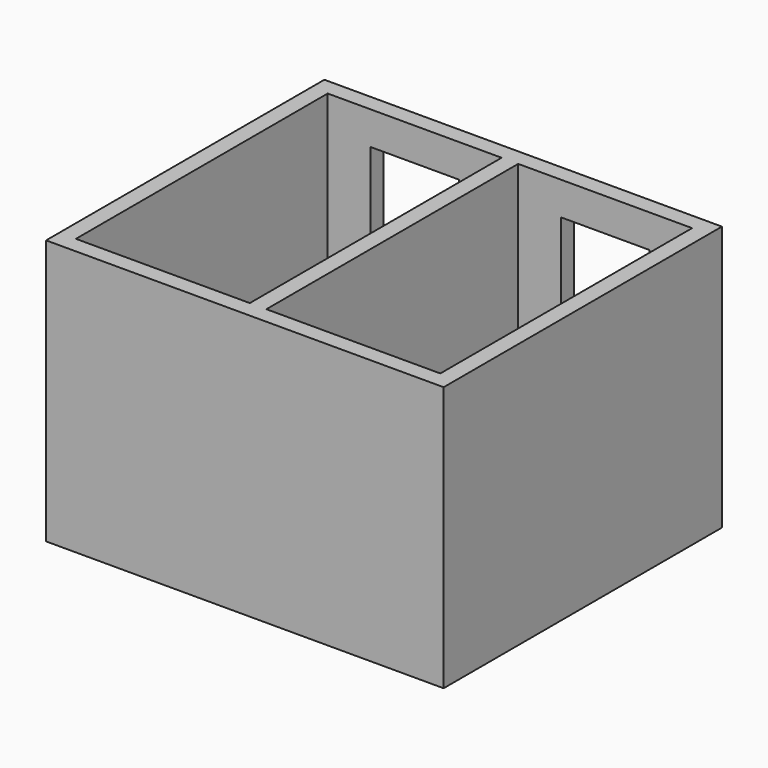
from build123d import *

# Parameters (mm, degrees)
F0_W     = 152.4
F0_H     = 2895.6
F0_W_2   = 812.8
F0_H_2   = 152.4
F1_DEPTH = 2438.4
F2_DEPTH = 2133.6
F3_DEPTH = 2438.4
F4_DEPTH = 2438.4
F5_DEPTH = 2133.6


with BuildPart() as f1:
    # F0 (on Top) → F1 (new body)
    with BuildSketch(Plane.XY):
        Polygon((3352.8, 2895.6), (3352.8, 0), (1752.6, 0), (1600.2, 0), (0, 0), (0, 2895.6), (393.7, 2895.6), (393.7, 3048), (0, 3048), (-152.4, 3048), (-152.4, 2895.6), (-152.4, 0), (-152.4, -152.4), (0, -152.4), (3352.8, -152.4), (3505.2, -152.4), (3505.2, 0), (3505.2, 2895.6), (3505.2, 3048), (3352.8, 3048), (2959.1, 3048), (2959.1, 2895.6), align=None)
        with Locations((1676.4, 1447.8)):
            Rectangle(F0_W, F0_H)
        with Locations((800.1, 2971.8)):
            Rectangle(F0_W_2, F0_H_2)
    extrude(amount=F1_DEPTH)

    # F0 (on Top) → F2 (cut)
    with BuildSketch(Plane.XY):
        with Locations((800.1, 2971.8)):
            Rectangle(F0_W_2, F0_H_2)
    extrude(amount=F2_DEPTH, mode=Mode.SUBTRACT)

    # F0 (on Top) → F3 (join)
    with BuildSketch(Plane.XY):
        Polygon((1600.2, 2895.6), (1752.6, 2895.6), (2146.3, 2895.6), (2146.3, 3048), (1206.5, 3048), (1206.5, 2895.6), align=None)
    extrude(amount=F3_DEPTH)

    # F0 (on Top) → F4 (join)
    with BuildSketch(Plane.XY):
        with Locations((2552.7, 2971.8)):
            Rectangle(F0_W_2, F0_H_2)
    extrude(amount=F4_DEPTH)

    # F0 (on Top) → F5 (cut)
    with BuildSketch(Plane.XY):
        with Locations((2552.7, 2971.8)):
            Rectangle(F0_W_2, F0_H_2)
    extrude(amount=F5_DEPTH, mode=Mode.SUBTRACT)


solid = f1.part
